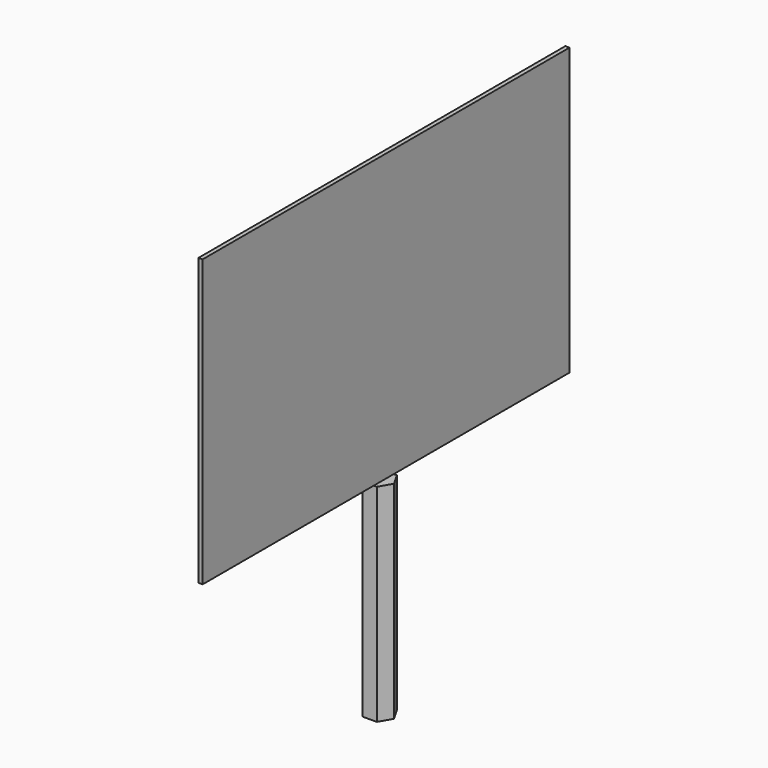
from build123d import *

# Parameters (mm, degrees)
F2_DEPTH = 50
F3_DEPTH = 1


with BuildPart() as f2:
    # F1 (on Top) → F2 (new body)
    with BuildSketch(Plane.XY):
        Polygon((1.74609, 3.024317), (-1.74609, 3.024317), (-3.492181, 0), (-1.74609, -3.024317), (1.74609, -3.024317), (3.492181, 0), align=None)
    extrude(amount=-F2_DEPTH)

    # F0 (on Right) → F3 (join)
    with BuildSketch(Plane.YZ):
        Polygon((-54.671764, 69.118708), (-54.671764, 0), (-8.214929, 0), (6.51529, 0), (56.088127, 0), (56.088127, 69.118708), align=None)
    extrude(amount=F3_DEPTH)


solid = f2.part
